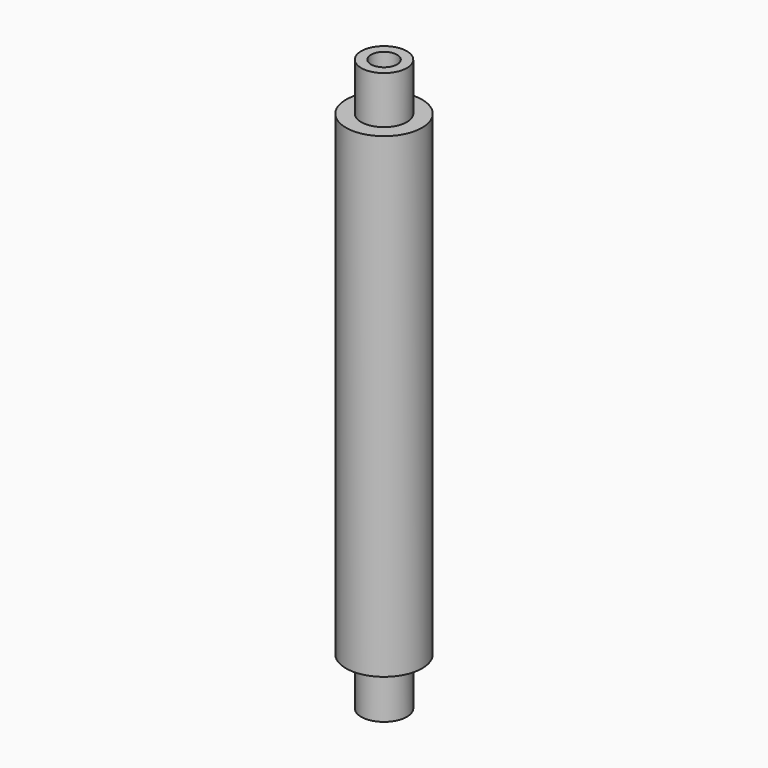
from build123d import *

# Parameters (mm, degrees)
SKETCH_R          = 8
PAD_DEPTH         = 100
SKETCH001_R       = 4.8
PAD001_DEPTH      = 10
PAD001_DEPTH_BACK = 110
SKETCH002_R       = 2.75
POCKET_DEPTH      = 120.001


with BuildPart() as part:
    # Sketch → Pad (new body)
    with BuildSketch(Plane.XY):
        Circle(SKETCH_R)
    extrude(amount=PAD_DEPTH)

    # Sketch001 → Pad001 (new body, two sides)
    with BuildSketch(Plane(origin=(0, 0, 0), x_dir=(1, 0, 0), z_dir=(0, 0, -1))) as pad001_sk:
        Circle(SKETCH001_R)
    extrude(amount=PAD001_DEPTH)
    extrude(pad001_sk.sketch, amount=-PAD001_DEPTH_BACK)

    # Sketch002 → Pocket (cut, through all)
    with BuildSketch(Plane(origin=(0, 0, -10), x_dir=(1, 0, 0), z_dir=(0, 0, -1))):
        Circle(SKETCH002_R)
    extrude(amount=-POCKET_DEPTH, mode=Mode.SUBTRACT)


solid = part.part
